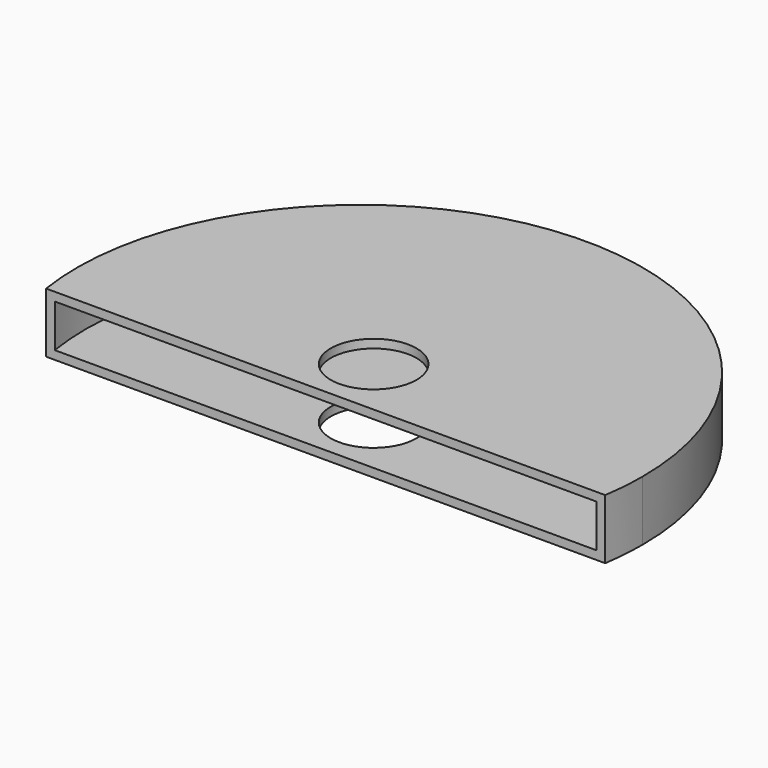
from build123d import *

# Parameters (mm, degrees)
F0_R     = 15.875
F1_DEPTH = 3.175
F2_DEPTH = 19.05
F3_R     = 15.875
F4_DEPTH = 3.175


with BuildPart() as f1:
    # F0 (on Top) → F1 (new body)
    with BuildSketch(Plane.XY):
        with BuildLine():
            ThreePointArc((101.6, 0), (-7.961986, 101.287545), (-100.352102, -15.875))
            Line((-100.352102, -15.875), (100.352102, -15.875))
            ThreePointArc((100.352102, -15.875), (101.287545, -7.961986), (101.6, 0))
        make_face()
        with Locations((0, 6.35)):
            Circle(F0_R, mode=Mode.SUBTRACT)
    extrude(amount=F1_DEPTH)

    # F0 (on Top) → F2 (join)
    with BuildSketch(Plane.XY):
        with BuildLine():
            ThreePointArc((103.565366, -15.875), (104.472154, -7.960509), (104.775, 0))
            ThreePointArc((104.775, 0), (-7.960509, 104.472154), (-103.565366, -15.875))
            Line((-103.565366, -15.875), (-100.352102, -15.875))
            ThreePointArc((-100.352102, -15.875), (-7.961986, 101.287545), (101.6, 0))
            ThreePointArc((101.6, 0), (101.287545, -7.961986), (100.352102, -15.875))
            Line((100.352102, -15.875), (103.565366, -15.875))
        make_face()
    extrude(amount=F2_DEPTH)

    # F3 (on face) → F4 (join)
    with BuildSketch(Plane.XY.offset(19.05)):
        with BuildLine():
            ThreePointArc((103.565366, -15.875), (104.472154, -7.960509), (104.775, 0))
            ThreePointArc((104.775, 0), (-7.960509, 104.472154), (-103.565366, -15.875))
            Line((-103.565366, -15.875), (-100.352102, -15.875))
            Line((-100.352102, -15.875), (103.565366, -15.875))
        make_face()
        with Locations((0, 6.35)):
            Circle(F3_R, mode=Mode.SUBTRACT)
        with BuildLine():
            ThreePointArc((103.565366, -15.875), (104.472154, -7.960509), (104.775, 0))
            ThreePointArc((104.775, 0), (-7.960509, 104.472154), (-103.565366, -15.875))
            Line((-103.565366, -15.875), (-100.352102, -15.875))
            Line((-100.352102, -15.875), (103.565366, -15.875))
        make_face()
        with Locations((0, 6.35)):
            Circle(F3_R, mode=Mode.SUBTRACT)
    extrude(amount=F4_DEPTH)


solid = f1.part
